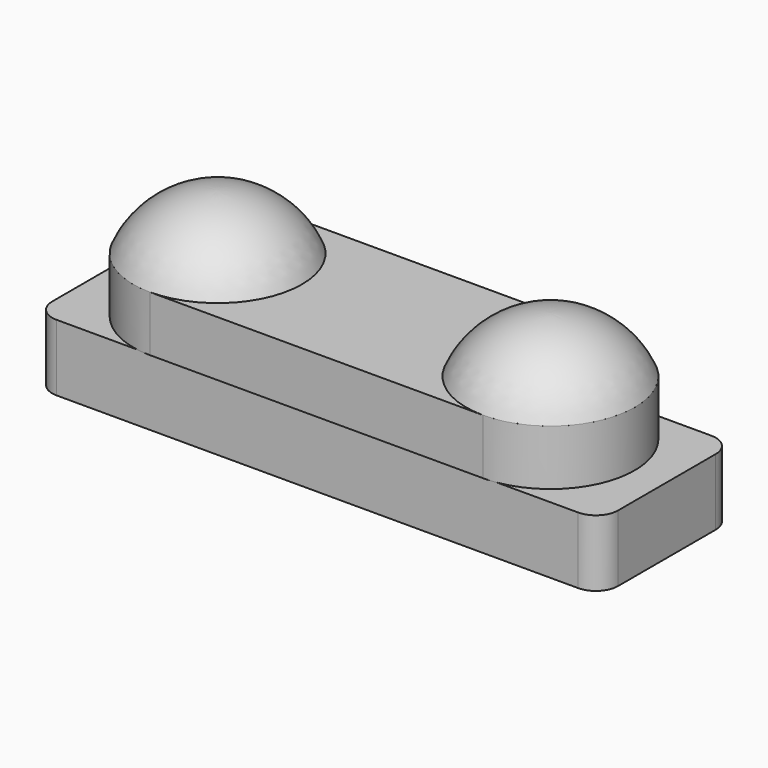
from build123d import *

# Parameters (mm, degrees)
PAD036_DEPTH    = 2.5
PAD037_DEPTH    = 3
SKETCH094_W     = 3.4
SKETCH094_H     = 2.2
POCKET015_DEPTH = 3


with BuildPart() as part:
    # Sketch066 → Pad036 (new body)
    with BuildSketch(Plane.XY):
        with BuildLine():
            ThreePointArc((-7.5, 3.8), (-11.3, 0), (-7.5, -3.8))
            Line((-7.5, -3.8), (7.5, -3.8))
            ThreePointArc((7.5, -3.8), (11.3, 0), (7.5, 3.8))
            Line((7.5, 3.8), (-7.5, 3.8))
        make_face()
    extrude(amount=PAD036_DEPTH)

    # Sketch067 → Pad037 (join)
    with BuildSketch(Plane.XY):
        with BuildLine():
            Line((-11.75, 3.75), (11.75, 3.75))
            ThreePointArc((12.75, 2.75), (12.457107, 3.457107), (11.75, 3.75))
            Line((12.75, 2.75), (12.75, -2.75))
            ThreePointArc((11.75, -3.75), (12.457107, -3.457107), (12.75, -2.75))
            Line((11.75, -3.75), (-11.75, -3.75))
            ThreePointArc((-12.75, -2.75), (-12.457107, -3.457107), (-11.75, -3.75))
            Line((-12.75, 2.75), (-12.75, -2.75))
            ThreePointArc((-11.75, 3.75), (-12.457107, 3.457107), (-12.75, 2.75))
        make_face()
    extrude(amount=-PAD037_DEPTH)

    # Sketch094 (on Face16 of Pad037) → Pocket015 (cut)
    with BuildSketch(Plane(origin=(0, 0, -3), x_dir=(1, 0, 0), z_dir=(0, 0, -1))):
        with Locations((-8.4, 0)):
            Rectangle(SKETCH094_W, SKETCH094_H)
        with Locations((8.4, 0)):
            Rectangle(SKETCH094_W, SKETCH094_H)
        Rectangle(SKETCH094_W, SKETCH094_H)
        with BuildLine():
            ThreePointArc((-2.7, 1.5), (-4.2, 3), (-5.7, 1.5))
            Line((-5.7, 1.5), (-5.7, -1.5))
            ThreePointArc((-5.7, -1.5), (-4.2, -3), (-2.7, -1.5))
            Line((-2.7, -1.5), (-2.7, 1.5))
        make_face()
        with BuildLine():
            ThreePointArc((5.7, 1.5), (4.2, 3), (2.7, 1.5))
            Line((2.7, -1.5), (2.7, 1.5))
            ThreePointArc((2.7, -1.5), (4.2, -3), (5.7, -1.5))
            Line((5.7, 1.5), (5.7, -1.5))
        make_face()
    extrude(amount=-POCKET015_DEPTH, mode=Mode.SUBTRACT)


with BuildPart() as part_1:
    # Body050 placement: moved
    add(part.part.moved(Location((0, 0, 12.5))))


with BuildPart() as part_2:
    # Clone017 placement: moved
    add(part_1.part.moved(Location((0, 0, -12.5))))

    # Sketch095 → Revolution003 (revolve)
    with BuildSketch(Plane(origin=(7.5, 0, 2.5), x_dir=(1, 0, 0), z_dir=(0, -1, 0))):
        with BuildLine():
            Line((0, 2.5), (0, 0))
            Line((0, 0), (3.8, 0))
            ThreePointArc((3.8, 0), (2.274313, 1.818956), (0, 2.5))
        make_face()
    revolution003 = revolve(axis=Axis((7.5, 0, 2.5), (0, 0, 1)))

    # Mirrored014: Revolution003 across YZ
    add(revolution003.mirror(Plane.YZ))


solid = part_2.part
